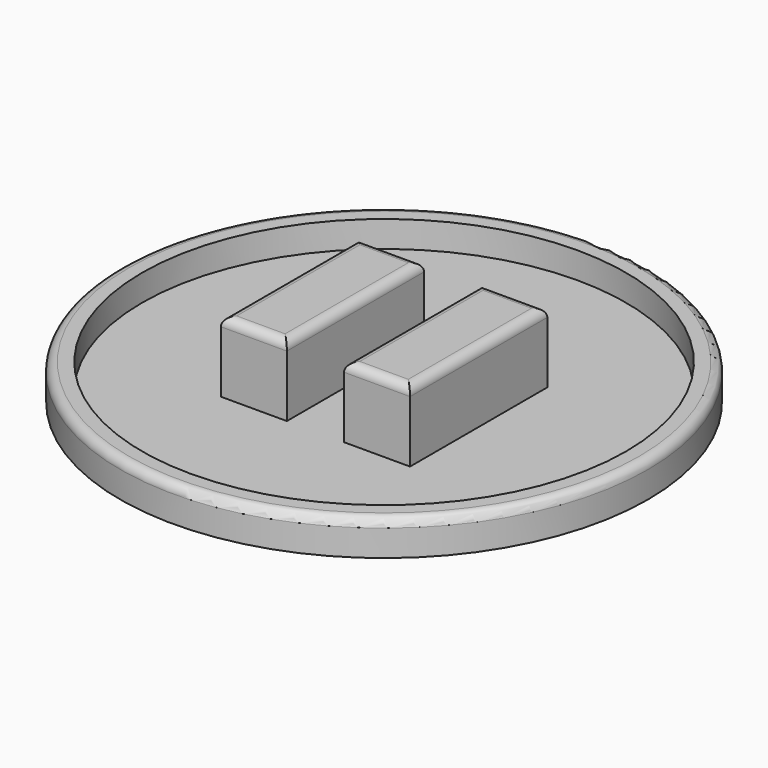
from build123d import *

# Parameters (mm, degrees)
F0_R     = 30
F1_DEPTH = 4
F2_R     = 27.5
F3_DEPTH = 3
F4_R     = 1
F5_T     = -1
F6_W     = 7.5
F6_H     = 19.5
F7_DEPTH = 8
F8_R     = 1


with BuildPart() as f1:
    # F0 (on Top) → F1 (new body)
    with BuildSketch(Plane.XY):
        Circle(F0_R)
    extrude(amount=F1_DEPTH)

    # F2 (on face) → F3 (cut)
    with BuildSketch(Plane.XY.offset(4)):
        Circle(F2_R)
    extrude(amount=-F3_DEPTH, mode=Mode.SUBTRACT)

    # F4
    f4_edges = [f1.edges().sort_by_distance(p)[0] for p in [
        (-30, 0, 4),
    ]]
    fillet(f4_edges, radius=F4_R)

    # F5
    f5_openings = [f1.faces().sort_by_distance(p)[0] for p in [
        (0, 0, 0),
    ]]
    offset(amount=F5_T, openings=f5_openings, kind=Kind.INTERSECTION)

    # F6 (on face) → F7 (join)
    with BuildSketch(Plane.XY.offset(1)):
        with Locations((7, 0)):
            Rectangle(F6_W, F6_H)
        with Locations((-7, 0)):
            Rectangle(F6_W, F6_H)
    extrude(amount=F7_DEPTH)

    # F8
    f8_edges = [f1.edges().sort_by_distance(p)[0] for p in [
        (3.25, 0, 9),
        (7, -9.75, 9),
        (10.75, 0, 9),
        (7, 9.75, 9),
        (-7, -9.75, 9),
        (-3.25, 0, 9),
        (-7, 9.75, 9),
        (-10.75, 0, 9),
    ]]
    fillet(f8_edges, radius=F8_R)


solid = f1.part
